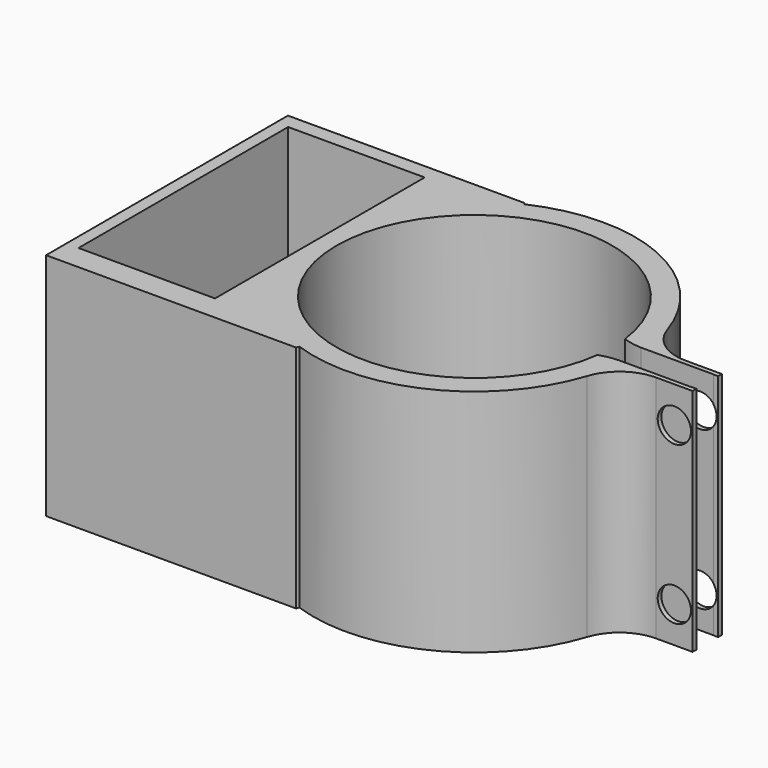
from build123d import *

# Parameters (mm, degrees)
F1_DEPTH       = 80
F2_R           = 9.4880271992
F3_DEPTH       = 600
F4_W           = 4.0547028184
F4_H           = 2.2076517344
F5_DEPTH       = 15
F6_R           = 8
F7_DEPTH       = 600
F9_START       = 50
F8_R           = 7.625
F9_DEPTH       = 570
F10_W          = 0.488139689
F10_H          = 8.393028751
F11_DEPTH      = 15
F13_DEPTH      = 25
F15_DEPTH      = 50
F17_DEPTH      = 295
F18_W          = 80
F18_H          = 61.0322915018
F19_DEPTH      = 10
F20_W          = 42.3060953617
F20_H          = 7.0626735687
F21_DEPTH      = 25
F22_W          = 33.6821526289
F22_H          = 16.1662399769
F23_DEPTH      = 25
F27_DEPTH      = 25
F28_R          = 5
F29_W          = 9.2532746494
F29_H          = 2.9556490481
F30_DEPTH      = 25
F30_DEPTH_BACK = 25
F31_R          = 1.8108941825
F32_DEPTH      = 25
F34_DEPTH      = 25
F35_W          = 14.8578360677
F35_H          = 28.517103754
F36_DEPTH      = 40


with BuildPart() as f1:
    # F0 (on Front) → F1 (new body)
    with BuildSketch(Plane.XZ):
        Polygon((0, 32.5182676315), (0, 0), (0, -28.3304974437), (43.5863435268, -28.3304974437), (43.5863435268, -20.3491598368), (7.9939365387, -20.3491598368), (7.9939365387, 0), (7.9939365387, 26.3243410736), (43.5863435268, 26.3243410736), (43.5863435268, 32.5182676315), align=None)
    extrude(amount=F1_DEPTH)

    # F2 (on face) → F3 (join)
    with BuildSketch(Plane.XY.offset(32.5182676315)):
        with Locations((32.2491303086, -37.8283821046)):
            Circle(F2_R)
    extrude(amount=F3_DEPTH)

    # F4 (on face) → F5 (cut)
    with BuildSketch(Plane.XY.offset(632.5182676315)):
        with Locations((22.9293145239, -37.5130698085)):
            Rectangle(F4_W, F4_H)
    extrude(amount=-F5_DEPTH, mode=Mode.SUBTRACT)

    # F6 (on face) → F7 (cut)
    with BuildSketch(Plane.XY.offset(632.5182676315)):
        with Locations((32.2491303086, -37.8283821046)):
            Circle(F6_R)
    extrude(amount=-F7_DEPTH, mode=Mode.SUBTRACT)


with BuildPart() as f9:
    # F8 (on face) → F9 (new body)
    with BuildSketch(Plane.XY.offset(32.5182676315).offset(F9_START)):
        with Locations((32.2491303086, -37.8283821046)):
            Circle(F8_R)
    extrude(amount=F9_DEPTH)

    # F10 (on face) → F11 (join)
    with BuildSketch(Plane.XY.offset(652.5182676315)):
        with Locations((31.1938934028, -27.710868977)):
            Rectangle(F10_W, F10_H)
    extrude(amount=-F11_DEPTH)

    # F12 (on face) → F13 (join)
    with BuildSketch(Plane.XY.offset(652.5182676315)):
        with BuildLine():
            ThreePointArc((24.8521837926, -35.977488472), (31.3166851855, -45.3961539757), (39.8741303086, -37.8283821046))
            ThreePointArc((39.8741303086, -37.8283821046), (39.8169021797, -36.8959369815), (39.6460768246, -35.977488472))
            Line((39.6460768246, -35.977488472), (24.8521837926, -35.977488472))
        make_face()
        with BuildLine():
            Line((24.8521837926, -35.977488472), (39.6460768246, -35.977488472))
            ThreePointArc((39.6460768246, -35.977488472), (32.2491303086, -30.2033821046), (24.8521837926, -35.977488472))
        make_face()
        with BuildLine():
            ThreePointArc((24.8521837926, -35.977488472), (32.2491303086, -30.2033821046), (39.6460768246, -35.977488472))
            Line((39.6460768246, -35.977488472), (39.6460768246, 264.022511528))
            Line((39.6460768246, 264.022511528), (24.8521837926, 264.022511528))
            Line((24.8521837926, 264.022511528), (24.8521837926, -35.977488472))
        make_face()
    extrude(amount=F13_DEPTH)

    # F14 (on face) → F15 (join)
    with BuildSketch(Plane.XY.offset(677.5182676315)):
        Polygon((154.8521837926, 264.022511528), (24.8521837926, 264.022511528), (-72.6417899132, 264.022511528), (-72.6417899132, -20.977488472), (154.8521837926, -20.977488472), align=None)
    extrude(amount=F15_DEPTH)

    # F16 (on face) → F17 (cut)
    with BuildSketch(Plane.XZ.offset(20.977488472)):
        Polygon((-52.7396649122, 686.2814426422), (154.8521837926, 727.5182676315), (-81.2070667744, 736.6052269936), (-72.6417899132, 692.2085285187), align=None)
    extrude(amount=-F17_DEPTH, mode=Mode.SUBTRACT)

    # F20 (on face) → F21 (join)
    with BuildSketch(Plane(origin=(0, 264.022511528, 0), x_dir=(-1, 0, 0), z_dir=(0, 1, 0))):
        with Locations((-93.7416106462, 696.6552138329)):
            Rectangle(F20_W, F20_H)
    extrude(amount=F21_DEPTH)

    # F22 (on face) → F23 (cut)
    with BuildSketch(Plane.XY.offset(700.1865506172)):
        with Locations((94.2212790251, 276.3699144125)):
            Rectangle(F22_W, F22_H)
    extrude(amount=-F23_DEPTH, mode=Mode.SUBTRACT)


with BuildPart() as f19:
    # F18 (on face) → F19 (new body)
    with BuildSketch(Plane.YZ.offset(43.5863435268)):
        with Locations((-40, 2.0021218807)):
            Rectangle(F18_W, F18_H)
    extrude(amount=F19_DEPTH)


with BuildPart() as f27:
    # F26 (on Top) → F27 (new body)
    with BuildSketch(Plane.XY):
        with BuildLine():
            Line((24.8369053006, 2), (17.3853386507, 2))
            ThreePointArc((17.3853386507, 2), (-17.5, 0), (17.3853386507, -2))
            Line((17.3853386507, -2), (24.8369053006, -2))
            Line((24.8369053006, -2), (25.3369053006, -2))
            Line((25.3369053006, -2), (25.3369053006, -1.5))
            Line((25.3369053006, -1.5), (25.3369053006, 1.5))
            Line((25.3369053006, 1.5), (25.3369053006, 2))
            Line((25.3369053006, 2), (24.8369053006, 2))
        make_face()
        with BuildLine():
            ThreePointArc((14.8817712447, -1.8795969301), (-15, 0), (14.8817712447, 1.8795969301))
            ThreePointArc((14.8817712447, 1.8795969301), (15.881113349, 1.6148969042), (16.9085127097, 1.5))
            Line((16.9085127097, 1.5), (17.4355957742, 1.5))
            Line((17.4355957742, 1.5), (24.8369053006, 1.5))
            Line((24.8369053006, 1.5), (24.8369053006, -1.5))
            Line((24.8369053006, -1.5), (17.4355957742, -1.5))
            Line((17.4355957742, -1.5), (16.9085127097, -1.5))
            ThreePointArc((16.9085127097, -1.5), (15.881113349, -1.6148969042), (14.8817712447, -1.8795969301))
        make_face(mode=Mode.SUBTRACT)
    extrude(amount=F27_DEPTH)

    # F28
    f28_edges = [f27.edges().sort_by_distance(p)[0] for p in [
        (17.385339, -2, 12.5),
        (17.385339, 2, 12.5),
    ]]
    fillet(f28_edges, radius=F28_R)

    # F29 (on Top) → F30 (cut, two sides)
    with BuildSketch(Plane.XY) as f30_sk:
        with Locations((24.9223280698, 0)):
            Rectangle(F29_W, F29_H)
    extrude(amount=-F30_DEPTH, mode=Mode.SUBTRACT)
    extrude(f30_sk.sketch, amount=F30_DEPTH_BACK, mode=Mode.SUBTRACT)

    # F31 (on face) → F32 (cut)
    with BuildSketch(Plane.XZ.offset(2)):
        with Locations((23.3601550405, 21.0856944323)):
            Circle(F31_R)
        with Locations((23.3601550405, 3.9143055677)):
            Circle(F31_R)
    extrude(amount=-F32_DEPTH, mode=Mode.SUBTRACT)

    # F33 (on Top) → F34 (join)
    with BuildSketch(Plane.XY):
        with BuildLine():
            Line((-33.1695042551, -16.8028511107), (-5.9619173408, -16.8028511107))
            ThreePointArc((-5.9619173408, -16.8028511107), (-6.6048434296, -16.5651949873), (-7.2380969958, -16.3028511107))
            Line((-7.2380969958, -16.3028511107), (-32.6695042551, -16.3028511107))
            Line((-32.6695042551, -16.3028511107), (-32.6695042551, 15.59525626))
            Line((-32.6695042551, 15.59525626), (-7.4055092994, 15.59525626))
            Line((-7.4055092994, 15.59525626), (-7.4055092994, 14.9921714968))
            ThreePointArc((-7.4055092994, 14.9921714968), (-7.2011649888, 15.0890530596), (-6.9955289917, 15.1831618859))
            Line((-6.9955289917, 15.1831618859), (-7.4055092994, 16.09525626))
            Line((-7.4055092994, 16.09525626), (-33.1695042551, 16.09525626))
            Line((-33.1695042551, 16.09525626), (-33.1695042551, 15.59525626))
            Line((-33.1695042551, 15.59525626), (-33.1695042551, -16.8028511107))
        make_face()
        with BuildLine():
            ThreePointArc((-7.2380969958, -16.3028511107), (-6.6048434296, -16.5651949873), (-5.9619173408, -16.8028511107))
            Line((-5.9619173408, -16.8028511107), (-5.633405689, -15.8583511929))
            ThreePointArc((-5.633405689, -15.8583511929), (-16.8329065642, -1.0255109398), (-7.4055092994, 14.9921714968))
            Line((-7.4055092994, 14.9921714968), (-7.4055092994, 15.59525626))
            Line((-7.4055092994, 15.59525626), (-32.6695042551, 15.59525626))
            Line((-32.6695042551, 15.59525626), (-32.6695042551, -16.3028511107))
            Line((-32.6695042551, -16.3028511107), (-7.2380969958, -16.3028511107))
        make_face()
    extrude(amount=F34_DEPTH)

    # F35 (on Top) → F36 (cut)
    with BuildSketch(Plane.XY):
        with Locations((-24.4145058095, 0.2095359378)):
            Rectangle(F35_W, F35_H)
    extrude(amount=F36_DEPTH, mode=Mode.SUBTRACT)


solid = f27.part
